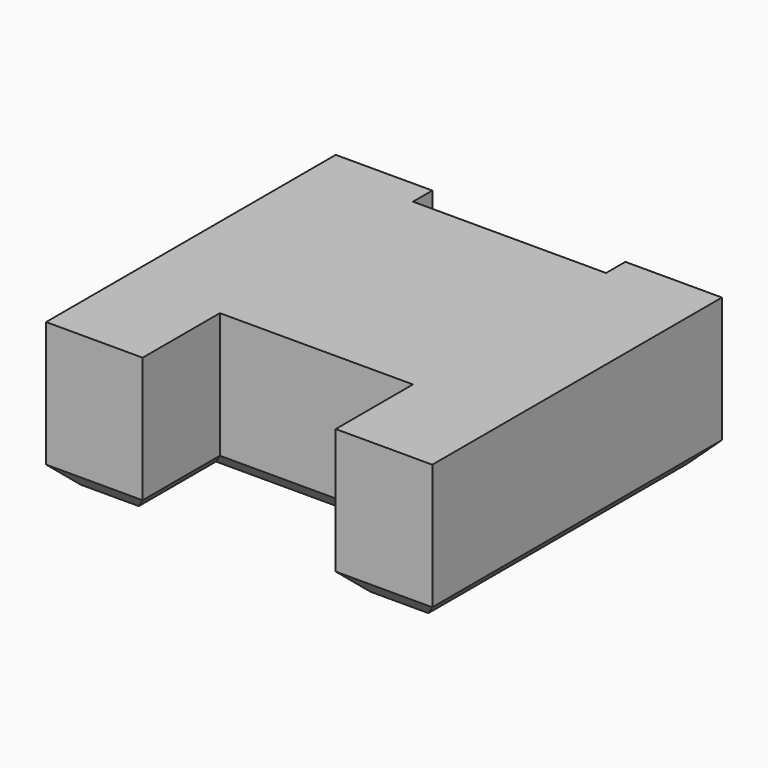
from build123d import *

# Parameters (mm, degrees)
PAD_DEPTH    = 3
CHAMFER_SIZE = 0.4


with BuildPart() as part:
    # Sketch → Pad (new body)
    with BuildSketch(Plane.XY):
        Polygon((-2, -2), (-2, 0), (2, 0), (2, -2), (4, -2), (4, 5.5), (2, 5.5), (2, 5), (-2, 5), (-2, 5.5), (-4, 5.5), (-4, -2), align=None)
    extrude(amount=PAD_DEPTH)

    # Chamfer
    chamfer_edges = [part.edges().sort_by_distance(p)[0] for p in [
        (-4, 1.75, 0),
        (-3, -2, 0),
        (-2, -1, 0),
        (0, 0, 0),
        (2, -1, 0),
        (3, -2, 0),
        (4, 1.75, 0),
        (3, 5.5, 0),
        (2, 5.25, 0),
        (0, 5, 0),
        (-2, 5.25, 0),
        (-3, 5.5, 0),
    ]]
    chamfer(chamfer_edges, length=CHAMFER_SIZE)


solid = part.part
